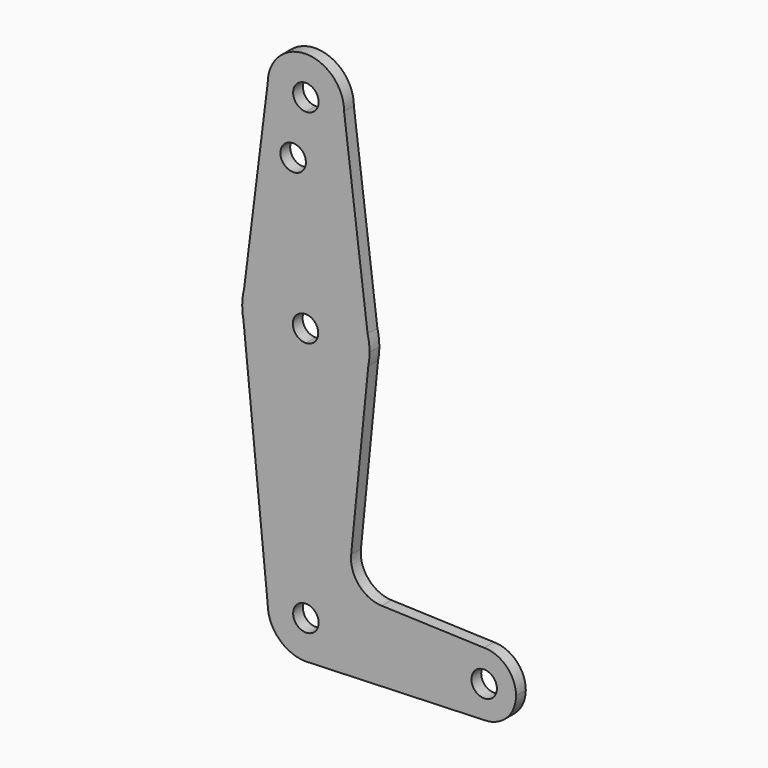
from build123d import *

# Parameters (mm, degrees)
F0_R     = 3.175
F1_DEPTH = 3.048


with BuildPart() as f1:
    # F0 (on Front) → F1 (new body)
    with BuildSketch(Plane.XZ):
        with BuildLine():
            ThreePointArc((0, 9.525), (-6.7351920908, 6.7351920908), (-9.525, 0))
            ThreePointArc((-9.525, 0), (-6.7351920908, -6.7351920908), (0, -9.525))
            Line((0, -9.525), (0.6794904459, -9.5007324841))
            ThreePointArc((0.6794904459, -9.5007324841), (6.9712901065, -6.4905114784), (9.525, 0))
            Line((9.525, 0), (3.175, 0))
            ThreePointArc((3.175, 0), (-2.2450640303, -2.2450640303), (0, 3.175))
            Line((0, 3.175), (0, 9.525))
        make_face()
        with BuildLine():
            Line((-15.5606435644, 60.3564356436), (-9.525, 0))
            ThreePointArc((-9.525, 0), (-6.7351920908, 6.7351920908), (0, 9.525))
            Line((0, 9.525), (0, 47.625))
            ThreePointArc((0, 47.625), (-10.0526499203, 51.2134278751), (-15.5606435644, 60.3564356436))
        make_face()
        with BuildLine():
            Line((0.6794904459, -9.5007324841), (0, -9.525))
            ThreePointArc((0, -9.525), (0.3399618281, -9.5189311877), (0.6794904459, -9.5007324841))
        make_face()
        with BuildLine():
            Line((0, 47.625), (0, 9.525))
            ThreePointArc((0, 9.525), (6.7351920908, 6.7351920908), (9.525, 0))
            Line((9.525, 0), (36.5125, 0))
            ThreePointArc((36.5125, 0), (38.8373399243, 5.6126600757), (44.45, 7.9375))
            Line((44.45, 7.9375), (18.9105730062, 8.8496223926))
            ThreePointArc((18.9105730062, 8.8496223926), (13.2053552395, 11.5661923774), (11.2835831424, 17.5858314242))
            Line((11.2835831424, 17.5858314242), (15.5606435644, 60.3564356436))
            ThreePointArc((15.5606435644, 60.3564356436), (10.0526499203, 51.2134278751), (0, 47.625))
        make_face()
        with BuildLine():
            Line((-15.875, 63.5), (-15.5606435644, 60.3564356436))
            ThreePointArc((-15.5606435644, 60.3564356436), (-10.0526499203, 51.2134278751), (0, 47.625))
            Line((0, 47.625), (0, 60.3568179127))
            ThreePointArc((0, 60.3568179127), (-3.2642122043, 63.5305643082), (0, 66.7043107036))
            Line((0, 66.7043107036), (0, 79.375))
            ThreePointArc((0, 79.375), (-9.7463072395, 76.0309664508), (-15.3865384615, 67.4076923077))
            Line((-15.3865384615, 67.4076923077), (-15.875, 63.5))
        make_face()
        with BuildLine():
            ThreePointArc((-15.875, 63.5), (-15.7962153946, 61.9203784605), (-15.5606435644, 60.3564356436))
            Line((-15.5606435644, 60.3564356436), (-15.875, 63.5))
        make_face()
        with BuildLine():
            ThreePointArc((9.525, 0), (6.9712901065, -6.4905114784), (0.6794904459, -9.5007324841))
            Line((0.6794904459, -9.5007324841), (44.45, -7.9375))
            ThreePointArc((44.45, -7.9375), (38.8373399243, -5.6126600757), (36.5125, 0))
            Line((36.5125, 0), (9.525, 0))
        make_face()
        with BuildLine():
            Line((0, 60.3568179127), (0, 47.625))
            ThreePointArc((0, 47.625), (10.0526499203, 51.2134278751), (15.5606435644, 60.3564356436))
            Line((15.5606435644, 60.3564356436), (15.875, 63.5))
            Line((15.875, 63.5), (15.3865384615, 67.4076923077))
            ThreePointArc((15.3865384615, 67.4076923077), (9.7463072395, 76.0309664508), (0, 79.375))
            Line((0, 79.375), (0, 66.7043107036))
            ThreePointArc((0, 66.7043107036), (2.1871745981, 65.7438623282), (3.0857877957, 63.5305643082))
            ThreePointArc((3.0857877957, 63.5305643082), (2.1871745981, 61.3172662881), (0, 60.3568179127))
        make_face()
        with BuildLine():
            ThreePointArc((-15.3865384615, 67.4076923077), (-15.7524112928, 65.4690514116), (-15.875, 63.5))
            Line((-15.875, 63.5), (-15.3865384615, 67.4076923077))
        make_face()
        with BuildLine():
            ThreePointArc((36.5125, 0), (38.8373399243, -5.6126600757), (44.45, -7.9375))
            ThreePointArc((44.45, -7.9375), (50.0626600757, -5.6126600757), (52.3875, 0))
            ThreePointArc((52.3875, 0), (50.0626600757, 5.6126600757), (44.45, 7.9375))
            ThreePointArc((44.45, 7.9375), (38.8373399243, 5.6126600757), (36.5125, 0))
        make_face()
        with BuildLine():
            ThreePointArc((47.625, 0), (44.45, -3.175), (41.275, 0))
            ThreePointArc((41.275, 0), (44.45, 3.175), (47.625, 0))
        make_face(mode=Mode.SUBTRACT)
        with BuildLine():
            Line((15.875, 63.5), (15.5606435644, 60.3564356436))
            ThreePointArc((15.5606435644, 60.3564356436), (15.7962153946, 61.9203784605), (15.875, 63.5))
        make_face()
        with BuildLine():
            Line((-9.525, 114.3), (-15.3865384615, 67.4076923077))
            ThreePointArc((-15.3865384615, 67.4076923077), (-9.7463072395, 76.0309664508), (0, 79.375))
            Line((0, 79.375), (0, 100.0252))
            Line((0, 100.0252), (0, 104.775))
            ThreePointArc((0, 104.775), (-6.7351920908, 107.5648079092), (-9.525, 114.3))
        make_face()
        with Locations((-3.175, 100.0252)):
            Circle(F0_R, mode=Mode.SUBTRACT)
        with BuildLine():
            Line((15.3865384615, 67.4076923077), (15.875, 63.5))
            ThreePointArc((15.875, 63.5), (15.7524112928, 65.4690514116), (15.3865384615, 67.4076923077))
        make_face()
        with BuildLine():
            Line((0, 100.0252), (0, 79.375))
            ThreePointArc((0, 79.375), (9.7463072395, 76.0309664508), (15.3865384615, 67.4076923077))
            Line((15.3865384615, 67.4076923077), (9.525, 114.3))
            ThreePointArc((9.525, 114.3), (6.7351920908, 107.5648079092), (0, 104.775))
            Line((0, 104.775), (0, 100.0252))
        make_face()
        with BuildLine():
            ThreePointArc((9.525, 114.3), (0, 123.825), (-9.525, 114.3))
            ThreePointArc((-9.525, 114.3), (-6.7351920908, 107.5648079092), (0, 104.775))
            ThreePointArc((0, 104.775), (6.7351920908, 107.5648079092), (9.525, 114.3))
        make_face()
        with BuildLine():
            ThreePointArc((3.175, 114.3), (2.2450640303, 112.0549359697), (0, 111.125))
            ThreePointArc((0, 111.125), (-2.2450640303, 116.5450640303), (3.175, 114.3))
        make_face(mode=Mode.SUBTRACT)
        with BuildLine():
            ThreePointArc((9.525, 0), (6.7351920908, 6.7351920908), (0, 9.525))
            Line((0, 9.525), (0, 3.175))
            ThreePointArc((0, 3.175), (2.2450640303, 2.2450640303), (3.175, 0))
            Line((3.175, 0), (9.525, 0))
        make_face()
    extrude(amount=F1_DEPTH)


solid = f1.part
